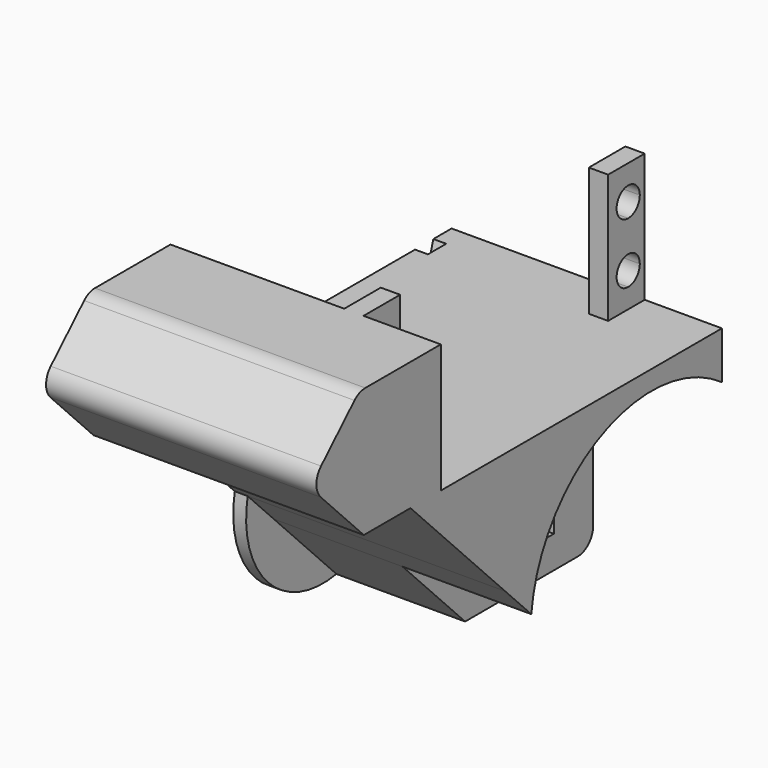
from build123d import *

# Parameters (mm, degrees)
F1_DEPTH  = 20
F0_W      = 12
F0_H      = 10
F2_DEPTH  = 20
F4_DEPTH  = 2
F8_DEPTH  = 3
F10_DEPTH = 2


with BuildPart() as f1:
    # F0 (on Right) → F1 (new body)
    with BuildSketch(Plane.YZ):
        with BuildLine():
            ThreePointArc((-9.7216395426, -22.7567306352), (3.9984194059, -3.7830302321), (27.3, -6.0803474404))
            Line((27.3, -6.0803474404), (27.3, 1.2904210016))
            Line((27.3, 1.2904210016), (20.2, 1.2904210016))
            Line((20.2, 1.2904210016), (-20.2, 1.2904210016))
            Line((-20.2, 1.2904210016), (-27.3, 1.2904210016))
            Line((-27.3, 1.2904210016), (-33.1852941176, 1.2904210016))
            Line((-33.1852941176, 1.2904210016), (-14.8038696072, -17.5481150452))
            Line((-14.8038696072, -17.5481150452), (-9.7216395426, -22.7567306352))
        make_face()
        with BuildLine():
            Line((-42.245950674, 1.2904210016), (-33.1852941176, 1.2904210016))
            Line((-33.1852941176, 1.2904210016), (-27.3, 1.2904210016))
            Line((-27.3, 1.2904210016), (-27.3, 21.2904210016))
            Line((-27.3, 21.2904210016), (-41.9619835647, 21.2904210016))
            ThreePointArc((-41.9619835647, 21.2904210016), (-43.092993443, 21.0690567559), (-44.0570932222, 20.4376321051))
            Line((-44.0570932222, 20.4376321051), (-50.5527888965, 14.0995525758))
            ThreePointArc((-50.5527888965, 14.0995525758), (-51.4574530171, 11.989182758), (-50.6048903424, 9.8572318148))
            Line((-50.6048903424, 9.8572318148), (-42.245950674, 1.2904210016))
        make_face()
    extrude(amount=F1_DEPTH)

    # F0 (on Right) → F2 (join)
    with BuildSketch(Plane.YZ):
        with BuildLine():
            ThreePointArc((-9.7216395426, -22.7567306352), (3.9984194059, -3.7830302321), (27.3, -6.0803474404))
            Line((27.3, -6.0803474404), (27.3, 1.2904210016))
            Line((27.3, 1.2904210016), (20.2, 1.2904210016))
            Line((20.2, 1.2904210016), (-20.2, 1.2904210016))
            Line((-20.2, 1.2904210016), (-27.3, 1.2904210016))
            Line((-27.3, 1.2904210016), (-33.1852941176, 1.2904210016))
            Line((-33.1852941176, 1.2904210016), (-14.8038696072, -17.5481150452))
            Line((-14.8038696072, -17.5481150452), (-9.7216395426, -22.7567306352))
        make_face()
        with BuildLine():
            ThreePointArc((24.3, -35.2095789984), (26.4213203436, -34.3308993419), (27.3, -32.2095789984))
            Line((27.3, -32.2095789984), (27.3, -6.0803474404))
            ThreePointArc((27.3, -6.0803474404), (3.9984194059, -3.7830302321), (-9.7216395426, -22.7567306352))
            Line((-9.7216395426, -22.7567306352), (2.4290441176, -35.2095789984))
            Line((2.4290441176, -35.2095789984), (24.3, -35.2095789984))
        make_face()
        with Locations((13.65, -25.2095789984)):
            Rectangle(F0_W, F0_H, mode=Mode.SUBTRACT)
        with BuildLine():
            Line((-42.245950674, 1.2904210016), (-33.1852941176, 1.2904210016))
            Line((-33.1852941176, 1.2904210016), (-27.3, 1.2904210016))
            Line((-27.3, 1.2904210016), (-27.3, 21.2904210016))
            Line((-27.3, 21.2904210016), (-41.9619835647, 21.2904210016))
            ThreePointArc((-41.9619835647, 21.2904210016), (-43.092993443, 21.0690567559), (-44.0570932222, 20.4376321051))
            Line((-44.0570932222, 20.4376321051), (-50.5527888965, 14.0995525758))
            ThreePointArc((-50.5527888965, 14.0995525758), (-51.4574530171, 11.989182758), (-50.6048903424, 9.8572318148))
            Line((-50.6048903424, 9.8572318148), (-42.245950674, 1.2904210016))
        make_face()
    extrude(amount=-F2_DEPTH)

    # F3 (on face) → F4 (join)
    with BuildSketch(Plane(origin=(-20, 0, 0), x_dir=(0, -1, 0), z_dir=(-1, 0, 0))):
        with BuildLine():
            Line((-2.4290441176, -35.2095789984), (14.8038696072, -17.5481150452))
            Line((14.8038696072, -17.5481150452), (33.1852941176, 1.2904210016))
            Line((33.1852941176, 1.2904210016), (42.245950674, 1.2904210016))
            Line((42.245950674, 1.2904210016), (50.6048903424, 9.8572318148))
            ThreePointArc((50.6048903424, 9.8572318148), (51.4574530171, 11.989182758), (50.5527888965, 14.0995525758))
            Line((50.5527888965, 14.0995525758), (44.0570932222, 20.4376321051))
            ThreePointArc((44.0570932222, 20.4376321051), (43.092993443, 21.0690567559), (41.9619835647, 21.2904210016))
            Line((41.9619835647, 21.2904210016), (27.3, 21.2904210016))
            Line((27.3, 21.2904210016), (27.3, 1.2904210016))
            Line((27.3, 1.2904210016), (-27.3, 1.2904210016))
            Line((-27.3, 1.2904210016), (-27.3, -32.2095789984))
            ThreePointArc((-27.3, -32.2095789984), (-26.4213203436, -34.3308993419), (-24.3, -35.2095789984))
            Line((-24.3, -35.2095789984), (-2.4290441176, -35.2095789984))
        make_face()
        Polygon((-19.65, -30.2095789984), (-19.65, -20.2095789984), (-15.15, -20.2095789984), (-13.65, -20.2095789984), (-12.15, -20.2095789984), (-7.65, -20.2095789984), (-7.65, -30.2095789984), (-12.15, -30.2095789984), (-15.15, -30.2095789984), align=None, mode=Mode.SUBTRACT)
        with BuildLine():
            ThreePointArc((-2.4290441176, -35.2095789984), (10.8667381723, -30.9446299941), (14.8038696072, -17.5481150452))
            Line((14.8038696072, -17.5481150452), (-2.4290441176, -35.2095789984))
        make_face()
        Polygon((-13.65, -20.2095789984), (-15.15, -20.2095789984), (-15.15, -30.2095789984), (-12.15, -30.2095789984), (-12.15, -20.2095789984), align=None)
    extrude(amount=F4_DEPTH)

    # F7 (on offset) → F8 (join)
    with BuildSketch(Plane.YZ.offset(8)):
        with BuildLine():
            Line((-24.1, 21.2904210016), (-27.3, 21.2904210016))
            Line((-27.3, 21.2904210016), (-27.3, 1.2904210016))
            Line((-27.3, 1.2904210016), (-24.1, 1.2904210016))
            Line((-24.1, 1.2904210016), (-24.1, 4.3404210016))
            ThreePointArc((-24.1, 4.3404210016), (-26.35, 6.5904210016), (-24.1, 8.8404210016))
            Line((-24.1, 8.8404210016), (-24.1, 13.7404210016))
            ThreePointArc((-24.1, 13.7404210016), (-26.35, 15.9904210016), (-24.1, 18.2404210016))
            Line((-24.1, 18.2404210016), (-24.1, 21.2904210016))
        make_face()
        with BuildLine():
            Line((-20.2, 21.2904210016), (-24.1, 21.2904210016))
            Line((-24.1, 21.2904210016), (-24.1, 18.2404210016))
            ThreePointArc((-24.1, 18.2404210016), (-22.5090097423, 17.5814112593), (-21.85, 15.9904210016))
            ThreePointArc((-21.85, 15.9904210016), (-22.5090097423, 14.3994307439), (-24.1, 13.7404210016))
            Line((-24.1, 13.7404210016), (-24.1, 8.8404210016))
            ThreePointArc((-24.1, 8.8404210016), (-22.5090097423, 8.1814112593), (-21.85, 6.5904210016))
            ThreePointArc((-21.85, 6.5904210016), (-22.5090097423, 4.9994307439), (-24.1, 4.3404210016))
            Line((-24.1, 4.3404210016), (-24.1, 1.2904210016))
            Line((-24.1, 1.2904210016), (-20.2, 1.2904210016))
            Line((-20.2, 1.2904210016), (-20.2, 21.2904210016))
        make_face()
        with BuildLine():
            Line((20.2, 21.2904210016), (20.2, 1.2904210016))
            Line((20.2, 1.2904210016), (24.1, 1.2904210016))
            Line((24.1, 1.2904210016), (24.1, 4.3404210016))
            ThreePointArc((24.1, 4.3404210016), (21.85, 6.5904210016), (24.1, 8.8404210016))
            Line((24.1, 8.8404210016), (24.1, 13.7404210016))
            ThreePointArc((24.1, 13.7404210016), (21.85, 15.9904210016), (24.1, 18.2404210016))
            Line((24.1, 18.2404210016), (24.1, 21.2904210016))
            Line((24.1, 21.2904210016), (20.2, 21.2904210016))
        make_face()
        with BuildLine():
            Line((24.1, 4.3404210016), (24.1, 1.2904210016))
            Line((24.1, 1.2904210016), (27.3, 1.2904210016))
            Line((27.3, 1.2904210016), (27.3, 21.2904210016))
            Line((27.3, 21.2904210016), (24.1, 21.2904210016))
            Line((24.1, 21.2904210016), (24.1, 18.2404210016))
            ThreePointArc((24.1, 18.2404210016), (25.6909902577, 17.5814112593), (26.35, 15.9904210016))
            ThreePointArc((26.35, 15.9904210016), (25.6909902577, 14.3994307439), (24.1, 13.7404210016))
            Line((24.1, 13.7404210016), (24.1, 8.8404210016))
            ThreePointArc((24.1, 8.8404210016), (25.6909902577, 8.1814112593), (26.35, 6.5904210016))
            ThreePointArc((26.35, 6.5904210016), (25.6909902577, 4.9994307439), (24.1, 4.3404210016))
        make_face()
    extrude(amount=-F8_DEPTH)

    # F9 (on face) → F10 (cut)
    with BuildSketch(Plane(origin=(-22, 0, 0), x_dir=(0, -1, 0), z_dir=(-1, 0, 0))):
        Polygon((-19.9727848101, -3.8804650743), (-12.15, -20.2095789984), (-9.9, -20.2095789984), (-20.2, 1.2904210016), (-23.75, 1.2904210016), (-17.4, -20.2095789984), (-15.15, -20.2095789984), align=None)
    extrude(amount=-F10_DEPTH, mode=Mode.SUBTRACT)


solid = f1.part
